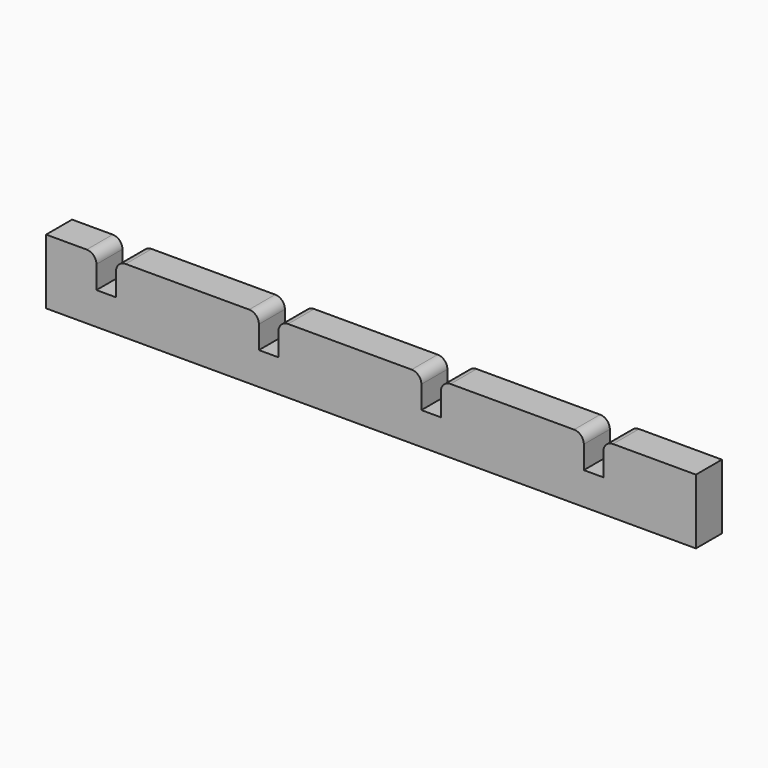
from build123d import *

# Parameters (mm, degrees)
F0_W           = 127
F0_H           = 6.35
F1_DEPTH       = 12.7
F2_W           = 3.81
F2_H           = 6.35
F3_DEPTH       = 6.35
F4_R           = 1.905
F7_D           = 2.7051
F7_DEPTH       = 11.684
F7_TIP         = 0.8126940303
F7_ON_F6_D     = 2.7051
F7_ON_F6_DEPTH = 11.684
F7_ON_F6_TIP   = 0.8126940303


with BuildPart() as f1:
    # F0 (on Top) → F1 (new body)
    with BuildSketch(Plane.XY):
        Rectangle(F0_W, F0_H)
    extrude(amount=F1_DEPTH)

    # F2 (on face) → F3 (cut, through all)
    with BuildSketch(Plane.XZ.offset(3.175)):
        with Locations((-51.7525, 9.525)):
            Rectangle(F2_W, F2_H)
        with Locations((-20.0025, 9.525)):
            Rectangle(F2_W, F2_H)
        with Locations((11.7475, 9.525)):
            Rectangle(F2_W, F2_H)
        with Locations((43.4975, 9.525)):
            Rectangle(F2_W, F2_H)
    extrude(amount=-F3_DEPTH, mode=Mode.SUBTRACT)

    # F4
    f4_edges = [f1.edges().sort_by_distance(p)[0] for p in [
        (-53.6575, 0, 12.7),
        (-49.8475, 0, 12.7),
        (-21.9075, 0, 12.7),
        (-18.0975, 0, 12.7),
        (9.8425, 0, 12.7),
        (13.6525, 0, 12.7),
        (41.5925, 0, 12.7),
        (45.4025, 0, 12.7),
    ]]
    fillet(f4_edges, radius=F4_R)

    # F7
    with Locations(Plane(origin=(0, 0, 0), x_dir=(1, 0, 0), z_dir=(0, 0, -1))):
        with Locations((-38.1, 0), (38.1, 0)):
            Hole(F7_D / 2, depth=F7_DEPTH)
            with Locations((0, 0, -(F7_DEPTH + F7_TIP / 2))):  # 118° drill point
                Cone(0, F7_D / 2, F7_TIP, mode=Mode.SUBTRACT)

    # F7 on F6
    with Locations(Plane(origin=(-63.5, 0, 0), x_dir=(0, -1, 0), z_dir=(-1, 0, 0))):
        with Locations((0, 3.81)):
            Hole(F7_ON_F6_D / 2, depth=F7_ON_F6_DEPTH)
            with Locations((0, 0, -(F7_ON_F6_DEPTH + F7_ON_F6_TIP / 2))):  # 118° drill point
                Cone(0, F7_ON_F6_D / 2, F7_ON_F6_TIP, mode=Mode.SUBTRACT)


solid = f1.part
